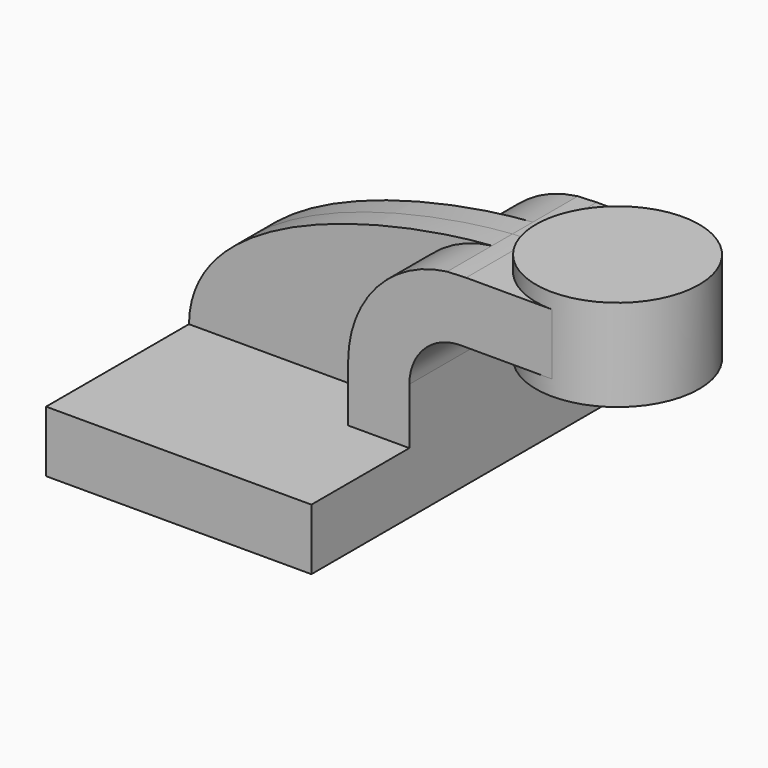
from build123d import *

# Parameters (mm, degrees)
F1_DEPTH = 63.5
F0_W     = 25.4
F0_H     = 19.05
F2_DEPTH = 25.4
F3_DEPTH = 7.9375


with BuildPart() as f1:
    # F0 (on Front) → F1 (new body, symmetric)
    with BuildSketch(Plane.XZ):
        Polygon((-41.275, 9.525), (-41.275, -9.525), (41.275, -9.525), (41.275, 9.525), (22.225, 9.525), align=None)
    extrude(amount=F1_DEPTH, both=True)

    # F0 (on Front) → F2 (join, symmetric)
    with BuildSketch(Plane.XZ):
        with BuildLine():
            Line((22.225, 9.525), (41.275, 9.525))
            Line((41.275, 9.525), (41.275, 27.0002))
            ThreePointArc((41.275, 27.0002), (45.92468, 38.22552), (57.15, 42.8752))
            Line((57.15, 42.8752), (60.325, 42.8752))
            Line((60.325, 42.8752), (60.325, 61.9252))
            Line((60.325, 61.9252), (58.905696, 61.9252))
            add(Edge.make_bspline(
                [(53.024491, 61.680682), (55.189714, 61.827395), (57.163409, 61.907619), (58.905696, 61.9252)],
                knots=[104.433612, 104.433612, 104.433612, 104.433612, 112.141058, 112.141058, 112.141058, 112.141058], degree=3))
            ThreePointArc((53.024491, 61.680682), (31.036411, 50.191494), (22.225, 27.0002))
            Line((22.225, 27.0002), (22.225, 9.525))
        make_face()
        with Locations((73.025, 52.4002)):
            Rectangle(F0_W, F0_H)
    extrude(amount=F2_DEPTH, both=True)

    # F0 (on Front) → F3 (join, symmetric)
    with BuildSketch(Plane.XZ):
        with BuildLine():
            add(Edge.make_bspline(
                [(-41.275, 9.525), (-40.815407, 45.497738), (23.686354, 59.692761), (53.024491, 61.680682)],
                knots=[0, 0, 0, 0, 104.433612, 104.433612, 104.433612, 104.433612], degree=3))
            Line((-41.275, 9.525), (22.225, 9.525))
            Line((22.225, 9.525), (22.225, 27.0002))
            ThreePointArc((22.225, 27.0002), (31.036411, 50.191494), (53.024491, 61.680682))
        make_face()
    extrude(amount=F3_DEPTH, both=True)

    # F0 (on Front) → F4 (revolve)
    with BuildSketch(Plane.XZ):
        Polygon((85.725, 66.675), (85.725, 61.9252), (85.725, 42.8752), (85.725, 38.1), (111.125, 38.1), (111.125, 66.675), align=None)
    revolve(axis=Axis((85.725, 0, 52.3875), (0, 0, 1)))


solid = f1.part
